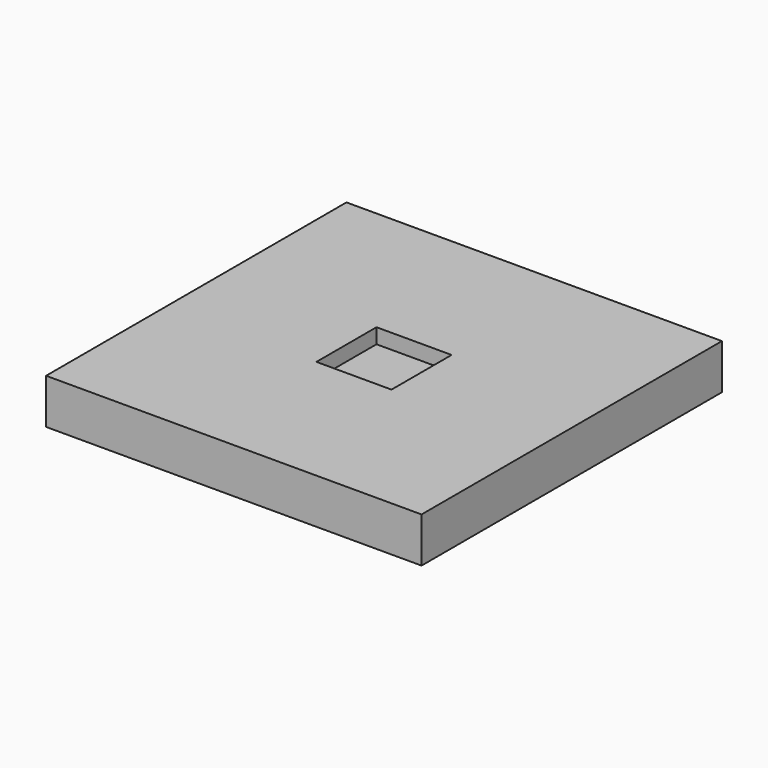
from build123d import *

# Parameters (mm, degrees)
F0_W     = 25
F0_H     = 25
F1_DEPTH = 3
F2_W     = 5
F2_H     = 5
F3_DEPTH = 1


with BuildPart() as f1:
    # F0 (on Top) → F1 (new body)
    with BuildSketch(Plane.XY):
        Rectangle(F0_W, F0_H)
    extrude(amount=F1_DEPTH)


with BuildPart() as f3:
    # F2 (on face) → F3 (new body)
    with BuildSketch(Plane.XY.offset(3)):
        Rectangle(F2_W, F2_H)
    extrude(amount=-F3_DEPTH)


with BuildPart() as f1_1:
    add(f1.part)

    # F4: cut F3
    add(f3.part, mode=Mode.SUBTRACT)


solid = f1_1.part
